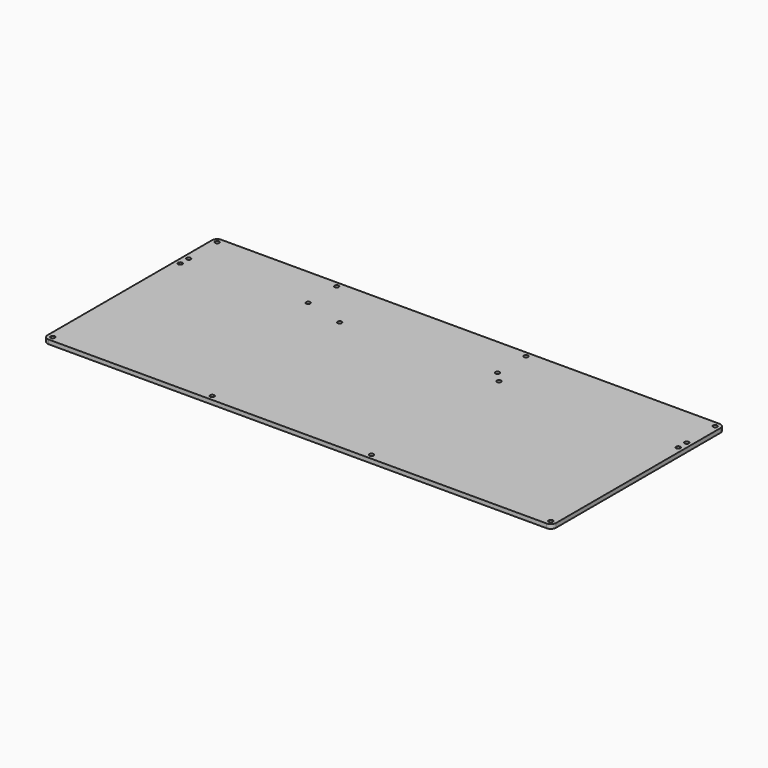
from build123d import *

# Parameters (mm, degrees)
SKETCH001_R = 1
PAD_DEPTH   = 2


with BuildPart() as part:
    # Sketch001 → Pad (new body)
    with BuildSketch(Plane.XY):
        with BuildLine():
            Line((-121.25, -49), (-121.25, 49))
            ThreePointArc((-118.75, 51.5), (-120.517767, 50.767767), (-121.25, 49))
            Line((-118.75, 51.5), (118.75, 51.5))
            ThreePointArc((121.25, 49), (120.517767, 50.767767), (118.75, 51.5))
            Line((121.25, 49), (121.25, -49))
            ThreePointArc((118.75, -51.5), (120.517767, -50.767767), (121.25, -49))
            Line((118.75, -51.5), (-118.75, -51.5))
            ThreePointArc((-121.25, -49), (-120.517767, -50.767767), (-118.75, -51.5))
        make_face()
        with Locations((-118.75, 49)):
            Circle(SKETCH001_R, mode=Mode.SUBTRACT)
        with Locations((-61.75, 49)):
            Circle(SKETCH001_R, mode=Mode.SUBTRACT)
        with Locations((28.5, 49)):
            Circle(SKETCH001_R, mode=Mode.SUBTRACT)
        with Locations((118.75, 49)):
            Circle(SKETCH001_R, mode=Mode.SUBTRACT)
        with Locations((-118.75, 32)):
            Circle(SKETCH001_R, mode=Mode.SUBTRACT)
        with Locations((-61.75, 32)):
            Circle(SKETCH001_R, mode=Mode.SUBTRACT)
        with Locations((28.5, 32)):
            Circle(SKETCH001_R, mode=Mode.SUBTRACT)
        with Locations((118.75, 32)):
            Circle(SKETCH001_R, mode=Mode.SUBTRACT)
        with Locations((-118.75, 27)):
            Circle(SKETCH001_R, mode=Mode.SUBTRACT)
        with Locations((-42.75, 27)):
            Circle(SKETCH001_R, mode=Mode.SUBTRACT)
        with Locations((33.25, 27)):
            Circle(SKETCH001_R, mode=Mode.SUBTRACT)
        with Locations((118.75, 27)):
            Circle(SKETCH001_R, mode=Mode.SUBTRACT)
        with Locations((-118.75, -49)):
            Circle(SKETCH001_R, mode=Mode.SUBTRACT)
        with Locations((-42.75, -49)):
            Circle(SKETCH001_R, mode=Mode.SUBTRACT)
        with Locations((33.25, -49)):
            Circle(SKETCH001_R, mode=Mode.SUBTRACT)
        with Locations((118.75, -49)):
            Circle(SKETCH001_R, mode=Mode.SUBTRACT)
    extrude(amount=PAD_DEPTH)


solid = part.part
